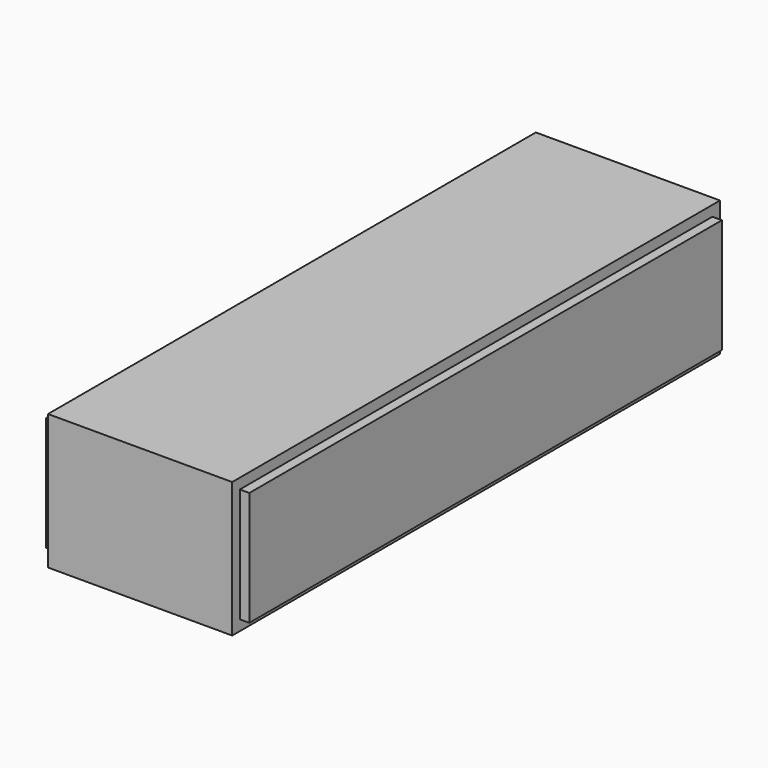
from build123d import *

# Parameters (mm, degrees)
F0_W     = 304.8
F0_H     = 67.564
F0_W_2   = 295.275
F0_H_2   = 57.15
F1_DEPTH = 46.0375
F2_DEPTH = 50.8


with BuildPart() as f1:
    # F0 (on Right) → F1 (new body, symmetric)
    with BuildSketch(Plane.YZ):
        Rectangle(F0_W, F0_H)
        Rectangle(F0_W_2, F0_H_2, mode=Mode.SUBTRACT)
    extrude(amount=F1_DEPTH, both=True)

    # F0 (on Right) → F2 (join, symmetric)
    with BuildSketch(Plane.YZ):
        Rectangle(F0_W_2, F0_H_2)
    extrude(amount=F2_DEPTH, both=True)


solid = f1.part
